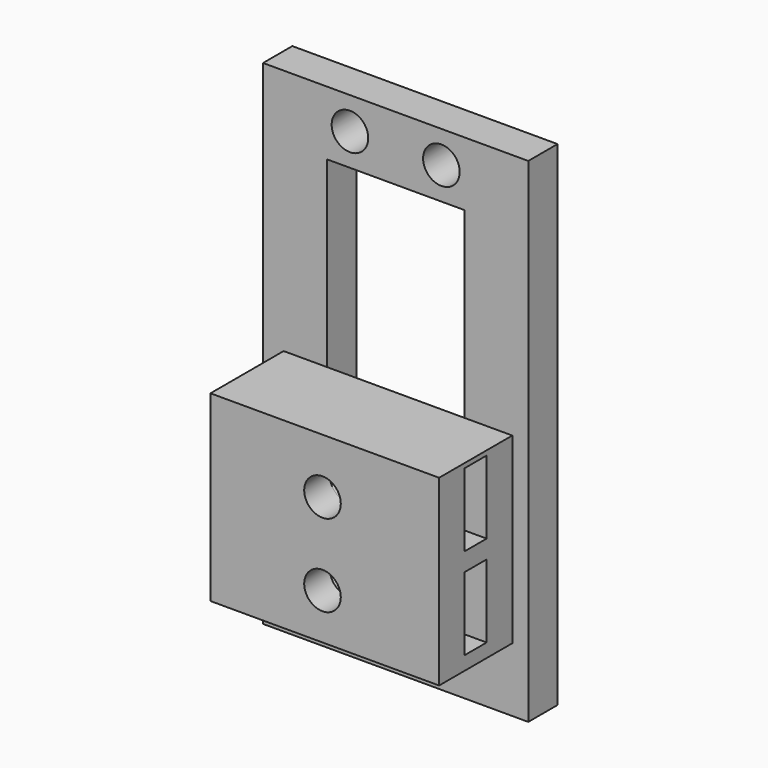
from build123d import *

# Parameters (mm, degrees)
SKETCH_W        = 29
SKETCH_H        = 54
PAD_DEPTH       = 4
SKETCH001_W     = 15
SKETCH001_H     = 40
POCKET_DEPTH    = 5
SKETCH002_R     = 2
POCKET001_DEPTH = 4.001
SKETCH003_W     = 25
SKETCH003_H     = 20
PAD001_DEPTH    = 10
SKETCH004_R     = 2
POCKET002_DEPTH = 14.001
SKETCH006_W     = 8
SKETCH006_H     = 3
POCKET003_DEPTH = 17
CHAMFER_SIZE    = 3.9


with BuildPart() as part:
    # Sketch → Pad (new body)
    with BuildSketch(Plane.XZ):
        Rectangle(SKETCH_W, SKETCH_H)
    extrude(amount=PAD_DEPTH)

    # Sketch001 (on Face6 of Pad) → Pocket (cut)
    with BuildSketch(Plane.XZ.offset(4)):
        Rectangle(SKETCH001_W, SKETCH001_H)
    extrude(amount=-POCKET_DEPTH, mode=Mode.SUBTRACT)

    # Sketch002 (on Face5 of Pocket) → Pocket001 (cut, through all)
    with BuildSketch(Plane.XZ.offset(4)):
        with Locations((-5, 23.5)):
            Circle(SKETCH002_R)
        with Locations((5, 23.5)):
            Circle(SKETCH002_R)
        with Locations((-5, -23.5)):
            Circle(SKETCH002_R)
        with Locations((5, -23.5)):
            Circle(SKETCH002_R)
    extrude(amount=-POCKET001_DEPTH, mode=Mode.SUBTRACT)

    # Sketch003 (on Face5 of Pocket001) → Pad001 (join)
    with BuildSketch(Plane.XZ.offset(4)):
        with Locations((0.25, -10)):
            Rectangle(SKETCH003_W, SKETCH003_H)
    extrude(amount=PAD001_DEPTH)

    # Sketch004 (on Face20 of Pad001) → Pocket002 (cut, through all)
    with BuildSketch(Plane.XZ.offset(14)):
        with Locations((0, -6)):
            Circle(SKETCH004_R)
        with Locations((0, -15)):
            Circle(SKETCH004_R)
    extrude(amount=-POCKET002_DEPTH, mode=Mode.SUBTRACT)

    # Sketch006 (on Face16 of Pocket002) → Pocket003 (cut)
    with BuildSketch(Plane(origin=(12.75, 0, 0), x_dir=(0, 0, 1), z_dir=(1, 0, 0))):
        with Locations((-14.5, 9)):
            Rectangle(SKETCH006_W, SKETCH006_H)
        with Locations((-4.5, 9)):
            Rectangle(SKETCH006_W, SKETCH006_H)
    extrude(amount=-POCKET003_DEPTH, mode=Mode.SUBTRACT)

    # Chamfer
    chamfer_edges = [part.edges().sort_by_distance(p)[0] for p in [
        (-4.25, -9, -18.5),
        (-4.25, -9, -0.5),
        (-4.25, -9, -8.5),
        (-4.25, -9, -10.5),
    ]]
    chamfer(chamfer_edges, length=CHAMFER_SIZE)


solid = part.part
